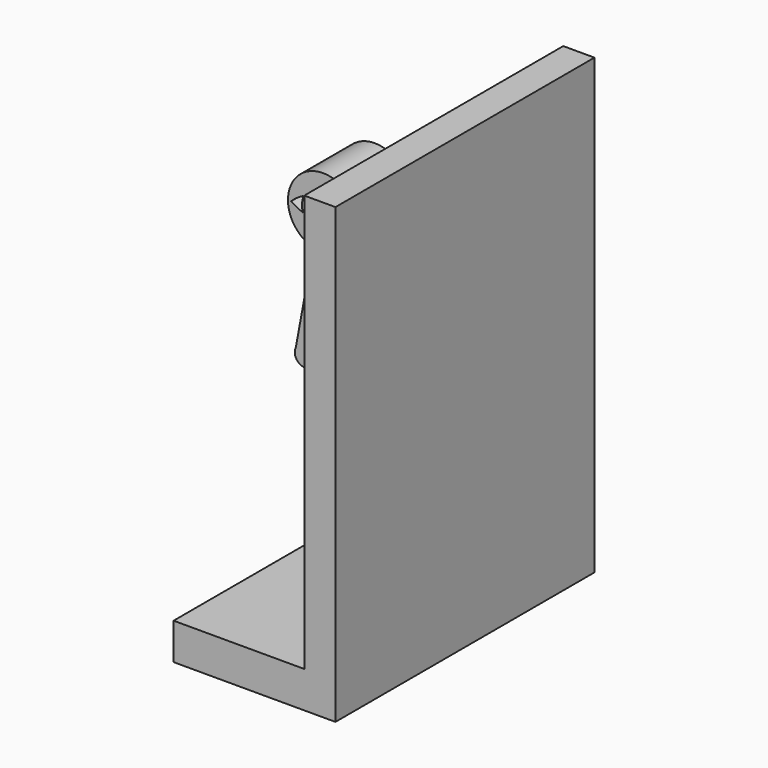
from build123d import *

# Parameters (mm, degrees)
F1_DEPTH      = 63.5
F1_DEPTH_BACK = 63.5
F2_DEPTH      = 12.7
F2_DEPTH_BACK = 12.7


with BuildPart() as f1:
    # F0 (on Front) → F1 (new body, two sides)
    with BuildSketch(Plane.XZ) as f1_sk:
        Polygon((5.371508698, -65.522043058), (5.371508698, 97.9658832341), (-6.8627363071, 97.9658832341), (-6.8627363071, 48.6798776739), (-6.8627363071, 40.9828163683), (-6.8627363071, 9.4113918418), (-6.8627363071, 0), (-6.8627363071, -12.8354746848), (-6.8627363071, -27.4818117807), (-6.8627363071, -65.522043058), (-58.128491302, -65.522043058), (-58.128491302, -79.8341167659), (-6.8627363071, -79.8341167659), (5.371508698, -79.8341167659), align=None)
    extrude(amount=F1_DEPTH)
    extrude(f1_sk.sketch, amount=-F1_DEPTH_BACK)

    # F0 (on Front) → F2 (join, two sides)
    with BuildSketch(Plane.XZ) as f2_sk:
        with BuildLine():
            Line((-6.8627363071, 40.9828163683), (-6.8627363071, 48.6798776739))
            Line((-6.8627363071, 48.6798776739), (-33.0135776846, 48.6798776739))
            ThreePointArc((-33.0135776846, 48.6798776739), (-41.8657904366, 74.1654240795), (-44.0332744745, 47.2734780892))
            Line((-44.0332744745, 47.2734780892), (-50.8055312902, 10.6125895488))
            ThreePointArc((-50.8055312902, 10.6125895488), (-47.911326645, 4.8382984922), (-43.1451888861, 9.1975172982))
            Line((-43.1451888861, 9.1975172982), (-38.6480391026, 33.7588861585))
            Line((-38.6480391026, 33.7588861585), (-30.8785432337, 9.1975172982))
            Line((-30.8785432337, 9.1975172982), (-6.8627363071, -27.4818117807))
            Line((-6.8627363071, -27.4818117807), (-6.8627363071, -12.8354746848))
            Line((-6.8627363071, -12.8354746848), (-21.3106013834, 9.1975172982))
            Line((-21.3106013834, 9.1975172982), (-15.6995095313, 9.2722494155))
            Line((-15.6995095313, 9.2722494155), (-6.8627363071, 0))
            Line((-6.8627363071, 0), (-6.8627363071, 9.4113918418))
            Line((-6.8627363071, 9.4113918418), (-13.6101442425, 17.1438418329))
            Line((-13.6101442425, 17.1438418329), (-21.6717980802, 17.1438418329))
            Line((-21.6717980802, 17.1438418329), (-29.3174761241, 40.9828163683))
            Line((-29.3174761241, 40.9828163683), (-6.8627363071, 40.9828163683))
        make_face()
        with BuildLine():
            ThreePointArc((-48.0739454946, 58.0599678974), (-50.4266953443, 59.1407090556), (-52.635530327, 60.4914426804))
            ThreePointArc((-52.635530327, 60.4914426804), (-50.3327931811, 62.4139887897), (-47.7398221818, 63.9223930132))
            add(Edge.make_bspline(
                [(-47.7398221818, 63.9223930132), (-48.8867841974, 61.1721295429), (-48.0739454946, 58.0599678975)],
                knots=[4.0684612213, 4.0684612213, 4.0684612213, 5.1518534756, 5.1518534756, 5.1518534756], degree=2, weights=[1, 0.856835408, 1]))
        make_face(mode=Mode.SUBTRACT)
        with BuildLine():
            ThreePointArc((-37.4315397632, 56.7311223598), (-40.1206351817, 56.5654747777), (-42.8097306001, 56.7311223598))
            add(Edge.make_bspline(
                [(-42.8097306001, 56.7311223598), (-40.3777204819, 61.7412384639), (-43.4961171085, 65.3130386577)],
                knots=[0.8526714179, 0.8526714179, 0.8526714179, 2.5748864382, 2.5748864382, 2.5748864382], degree=2, weights=[1, 0.6515977499, 1]))
            ThreePointArc((-43.4961171085, 65.3130386577), (-40.1206351817, 65.6361303431), (-36.7451532548, 65.3130386577))
            add(Edge.make_bspline(
                [(-36.7451532548, 65.3130386577), (-39.8635498815, 61.7412384639), (-37.4315397632, 56.7311223598)],
                knots=[0.5667062154, 0.5667062154, 0.5667062154, 2.2889212357, 2.2889212357, 2.2889212357], degree=2, weights=[1, 0.6515977499, 1]))
        make_face(mode=Mode.SUBTRACT)
        with BuildLine():
            ThreePointArc((-32.5014481816, 63.9223930132), (-29.9084771822, 62.4139887897), (-27.6057400363, 60.4914426804))
            ThreePointArc((-27.6057400363, 60.4914426804), (-29.8145750191, 59.1407090556), (-32.1673248687, 58.0599678974))
            add(Edge.make_bspline(
                [(-32.1673248687, 58.0599678975), (-31.3544861659, 61.1721295429), (-32.5014481816, 63.9223930132)],
                knots=[4.2729244852, 4.2729244852, 4.2729244852, 5.3563167394, 5.3563167394, 5.3563167394], degree=2, weights=[1, 0.856835408, 1]))
        make_face(mode=Mode.SUBTRACT)
    extrude(amount=F2_DEPTH)
    extrude(f2_sk.sketch, amount=-F2_DEPTH_BACK)


solid = f1.part
